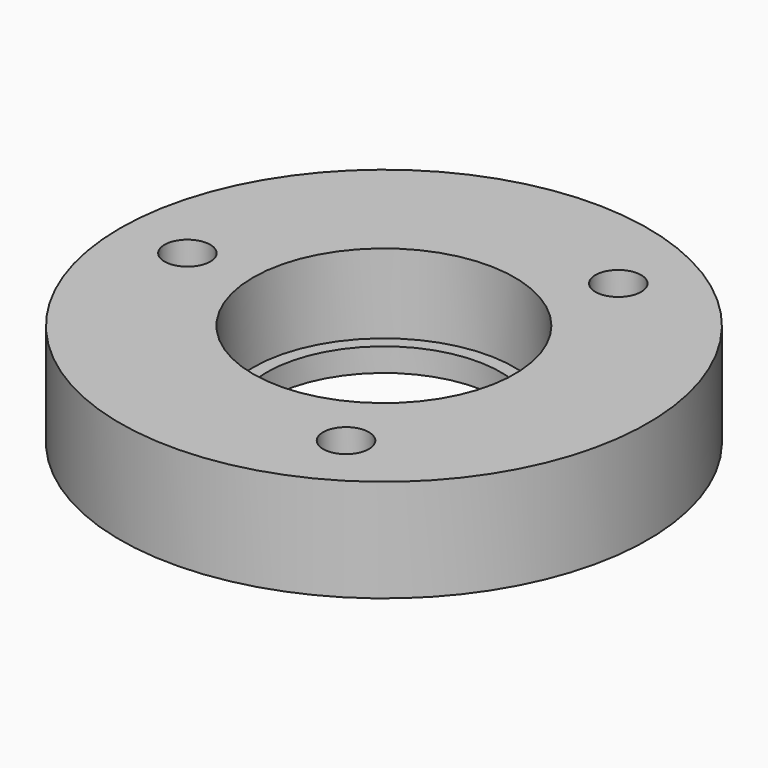
from build123d import *

# Parameters (mm, degrees)
HOLE001_D           = 3.4
HOLE001_DEPTH       = 5
HOLE001_CBORE_D     = 3.9
HOLE001_CBORE_DEPTH = 4
POLARPATTERN_COUNT  = 3


with BuildPart() as part:
    # Sketch003 → Revolution (revolve)
    with BuildSketch(Plane.XZ):
        Polygon((-22.5, 0), (-22.5, -8.75), (-10, -8.75), (-10, -6.75), (-11.15, -6.75), (-11.15, 0), align=None)
    revolve(axis=Axis((0, 0, 0), (0, 0, 1)))

    # Hole001
    with Locations(Plane.XY):
        with Locations((-16.75, 0)):
            hole001 = CounterBoreHole(HOLE001_D / 2, HOLE001_CBORE_D / 2, HOLE001_CBORE_DEPTH, depth=HOLE001_DEPTH)

    # PolarPattern: Hole001 ×3 about axis
    polarpattern_axis = Axis((0, 0, 0), (0, 0, 1))
    for i in range(1, POLARPATTERN_COUNT):
        add(hole001.rotate(polarpattern_axis, i * 360 / POLARPATTERN_COUNT), mode=Mode.SUBTRACT)


solid = part.part
